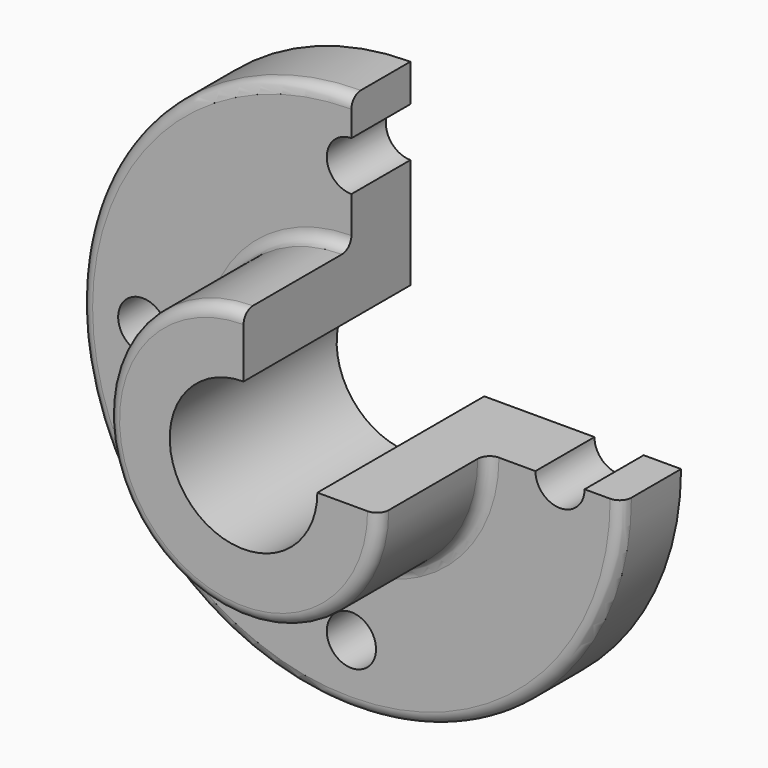
from build123d import *

# Parameters (mm, degrees)
F0_W     = 19.05
F0_H     = 69.85
F1_ANGLE = -270
F2_R     = 3.048
F3_W     = 34.798
F3_H     = 35.052
F4_ANGLE = 270
F5_R     = 3.048
F6_R     = 19.05
F7_DEPTH = 53.849
F8_R     = 6.35
F9_DEPTH = 19.051


with BuildPart() as f1:
    # F0 (on Right) → F1 (revolve)
    with BuildSketch(Plane.YZ):
        with Locations((9.525, 34.925)):
            Rectangle(F0_W, F0_H)
    revolve(axis=Axis((0, 9.525, 0), (0, 1, 0)), revolution_arc=F1_ANGLE)

    # F2
    f2_edges = [f1.edges().sort_by_distance(p)[0] for p in [
        (-49.391409, 0, -49.391409),
    ]]
    fillet(f2_edges, radius=F2_R)

    # F3 (on Right) → F4 (revolve)
    with BuildSketch(Plane.YZ):
        with Locations((-17.399, 17.526)):
            Rectangle(F3_W, F3_H)
    revolve(axis=Axis((0, -17.399, 0), (0, -1, 0)), revolution_arc=F4_ANGLE)

    # F5
    f5_edges = [f1.edges().sort_by_distance(p)[0] for p in [
        (-24.785507, -34.798, -24.785507),
        (-24.785507, 0, -24.785507),
    ]]
    fillet(f5_edges, radius=F5_R)

    # F6 (on face) → F7 (cut, through all)
    with BuildSketch(Plane.XZ.offset(34.798)):
        Circle(F6_R)
    extrude(amount=-F7_DEPTH, mode=Mode.SUBTRACT)

    # F8 (on Front) → F9 (cut, through all)
    with BuildSketch(Plane.XZ):
        with Locations((0, 53.848)):
            Circle(F8_R)
        with Locations((-53.848, 0)):
            Circle(F8_R)
        with Locations((0, -53.848)):
            Circle(F8_R)
        with Locations((53.848, 0)):
            Circle(F8_R)
    extrude(amount=-F9_DEPTH, mode=Mode.SUBTRACT)


solid = f1.part
